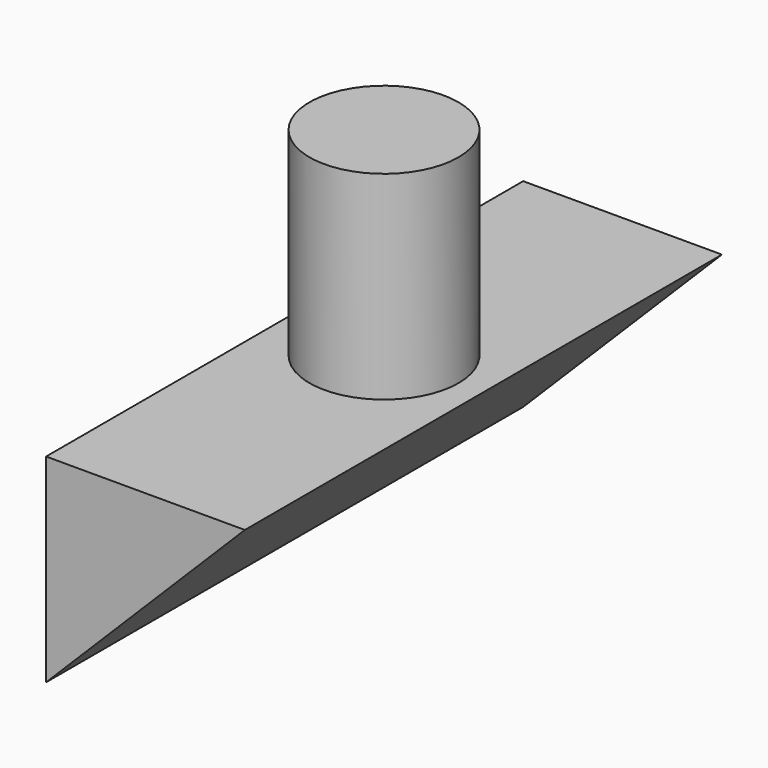
from build123d import *

# Parameters (mm, degrees)
F0_R     = 9.525
F1_DEPTH = 25.4
F2_W     = 25.4
F2_H     = 76.2
F3_DEPTH = 25.4
F5_DEPTH = 76.201


with BuildPart() as f1:
    # F0 (on Top) → F1 (new body)
    with BuildSketch(Plane.XY):
        Circle(F0_R)
    extrude(amount=F1_DEPTH)

    # F2 (on face) → F3 (join)
    with BuildSketch(Plane(origin=(0, 0, 0), x_dir=(1, 0, 0), z_dir=(0, 0, -1))):
        Rectangle(F2_W, F2_H)
    extrude(amount=F3_DEPTH)

    # F4 (on face) → F5 (cut, through all)
    with BuildSketch(Plane.XZ.offset(38.1)):
        Polygon((12.7, -25.4), (12.7, 0), (-12.7, -25.4), align=None)
    extrude(amount=-F5_DEPTH, mode=Mode.SUBTRACT)


solid = f1.part
